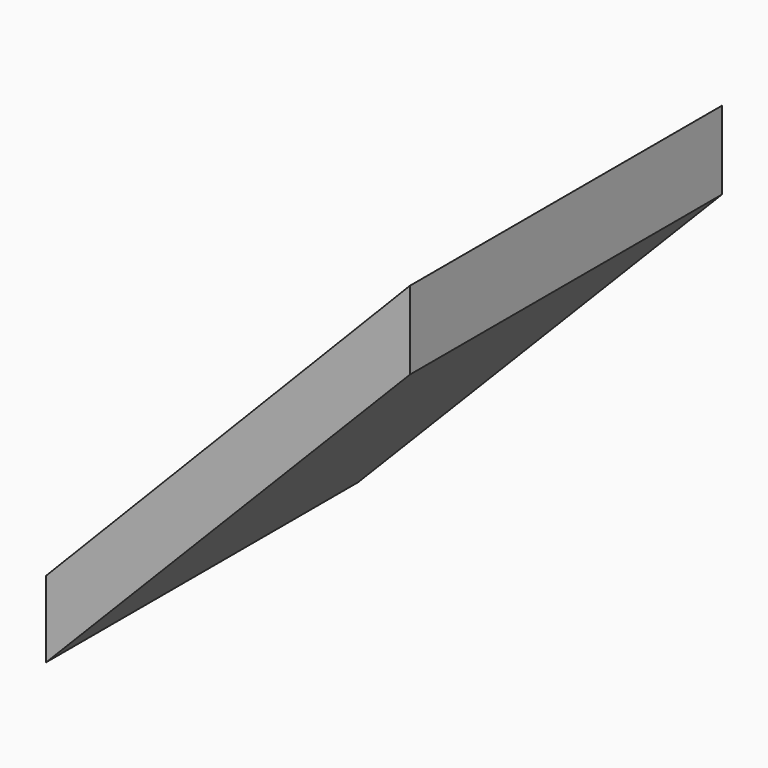
from build123d import *

# Parameters (mm, degrees)
F1_DEPTH = 19.05


with BuildPart() as f1:
    # F0 (on Front) → F1 (new body)
    with BuildSketch(Plane.XZ):
        Polygon((17.768437, 18.246084), (0, 0), (0, -3.72564), (17.768437, 14.424915), align=None)
    extrude(amount=F1_DEPTH)


with BuildPart() as f2_1:
    # F2: copy of F1
    add(f1.part)


solid = f1.part
